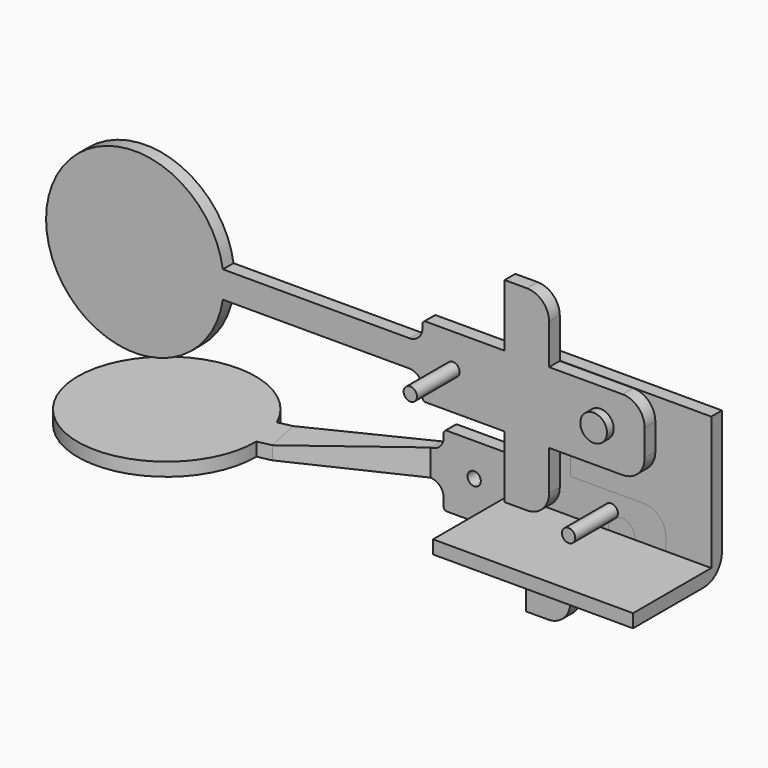
from build123d import *

# Parameters (mm, degrees)
F0_W          = 45
F0_H          = 30
F0_R          = 1.5
F1_DEPTH      = 3
F0_H_2        = 3
F2_DEPTH      = 25
F3_D          = 6
F4_R          = 5
F5_R          = 1.5
F5_R_2        = 3
F6_DEPTH      = 3
F7_DEPTH      = 8
F7_DEPTH_BACK = 2
F8_DEPTH      = 15
F10_DEPTH     = 15
F13_DEPTH     = 3
F12_R         = 1.5
F12_R_2       = 3
F14_DEPTH     = 3
F14_FACE_W    = 3
F14_FACE_H    = 6.0007511677
F13_FACE_W    = 8.1384943845
F13_FACE_H    = 3


with BuildPart() as f1:
    # F0 (on Front) → F1 (new body)
    with BuildSketch(Plane.XZ):
        with Locations((22.5, 15)):
            Rectangle(F0_W, F0_H)
        with Locations((22.5, 4)):
            Circle(F0_R, mode=Mode.SUBTRACT)
    extrude(amount=F1_DEPTH)

    # F0 (on Front) → F2 (join)
    with BuildSketch(Plane.XZ):
        with Locations((22.5, -1.5)):
            Rectangle(F0_W, F0_H_2)
    extrude(amount=F2_DEPTH)

    # F3 (through all)
    with Locations(Plane(origin=(0, 0, 0), x_dir=(1, 0, 0), z_dir=(0, 1, 0))):
        with Locations((22.5, -22)):
            Hole(F3_D / 2)

    # F4
    f4_edges = [f1.edges().sort_by_distance(p)[0] for p in [
        (22.5, 0, -3),
    ]]
    fillet(f4_edges, radius=F4_R)

    # F0 (on Front) → F10 (join)
    with BuildSketch(Plane.XZ):
        with Locations((22.5, 4)):
            Circle(F0_R)
    extrude(amount=F10_DEPTH)


with BuildPart() as f6:
    # F5 (on Front) → F6 (new body)
    with BuildSketch(Plane.XZ):
        with BuildLine():
            ThreePointArc((32.5, 25), (31.0355339059, 28.5355339059), (27.5, 30))
            Line((27.5, 30), (11, 30))
            Line((11, 30), (11, 39))
            ThreePointArc((11, 39), (9.5355339059, 42.5355339059), (6, 44))
            Line((6, 44), (1, 44))
            Line((1, 44), (1, 30))
            Line((1, 30), (-16.7666415907, 30))
            ThreePointArc((-16.7666415907, 30), (-17.285204295, 29.785204295), (-17.5, 29.2666415907))
            Line((-17.5, 29.2666415907), (-17.5, 28.4080051974))
            ThreePointArc((-17.5, 28.4080051974), (-18.3508708734, 26.353821195), (-20.4050548757, 25.5029503216))
            Line((-20.4050548757, 25.5029503216), (-62.4050548757, 25.5029503216))
            ThreePointArc((-62.4050548757, 25.5029503216), (-102.178774809, 22.5029503216), (-62.4050548757, 19.5029503216))
            Line((-62.4050548757, 19.5029503216), (-20.5, 19.5029503216))
            ThreePointArc((-20.5, 19.5029503216), (-18.3786796564, 18.6242706652), (-17.5, 16.5029503216))
            Line((-17.5, 16.5029503216), (-17.5, 14.7333584093))
            ThreePointArc((-17.5, 14.7333584093), (-17.285204295, 14.214795705), (-16.7666415907, 14))
            Line((-16.7666415907, 14), (1, 14))
            Line((1, 14), (1, 0))
            Line((1, 0), (6, 0))
            ThreePointArc((6, 0), (9.5355339059, 1.4644660941), (11, 5))
            Line((11, 5), (11, 14))
            Line((11, 14), (27.5, 14))
            ThreePointArc((27.5, 14), (31.0355339059, 15.4644660941), (32.5, 19))
            Line((32.5, 19), (32.5, 25))
        make_face()
        with Locations((-10.6325279921, 22.5029503216)):
            Circle(F5_R, mode=Mode.SUBTRACT)
        with Locations((22.5359164178, 22.5029503216)):
            Circle(F5_R_2, mode=Mode.SUBTRACT)
    extrude(amount=F6_DEPTH)

    # F5 (on Front) → F8 (join)
    with BuildSketch(Plane.XZ):
        with Locations((-10.6325279921, 22.5029503216)):
            Circle(F5_R)
    extrude(amount=F8_DEPTH)


with BuildPart() as f7:
    # F5 (on Front) → F7 (new body, two sides)
    with BuildSketch(Plane.XZ) as f7_sk:
        with Locations((22.5359164178, 22.5029503216)):
            Circle(F5_R_2)
    extrude(amount=F7_DEPTH)
    extrude(f7_sk.sketch, amount=-F7_DEPTH_BACK)


with BuildPart() as f6_1:
    # F9: moved
    add(f6.part.moved(Location((0, -3.1, 0))))


with BuildPart() as f13:
    # F11 (on Top) → F13 (new body)
    with BuildSketch(Plane.XY):
        with BuildLine():
            Line((-42.503958739, -11.217947247), (-45.620290691, -11.8869222764))
            ThreePointArc((-45.620290691, -11.8869222764), (-83.4127590866, -24.3366303772), (-43.8777487707, -19.8367572071))
            Line((-43.8777487707, -19.8367572071), (-40.7958033527, -19.1751638472))
            Line((-40.7958033527, -19.1751638472), (-42.503958739, -11.217947247))
        make_face()
    extrude(amount=F13_DEPTH)



with BuildPart() as f14:
    # F12 (on Front) → F14 (new body)
    with BuildSketch(Plane.XZ):
        with BuildLine():
            ThreePointArc((34.7877358819, 2.8544844273), (33.3232697878, 6.3900183332), (29.7877358819, 7.8544844273))
            Line((29.7877358819, 7.8544844273), (13.2877358819, 7.8544844273))
            Line((13.2877358819, 7.8544844273), (13.2877358819, 16.8544844273))
            ThreePointArc((13.2877358819, 16.8544844273), (11.8232697878, 20.3900183332), (8.2877358819, 21.8544844273))
            Line((8.2877358819, 21.8544844273), (3.2877358819, 21.8544844273))
            Line((3.2877358819, 21.8544844273), (3.2877358819, 7.8544844273))
            Line((3.2877358819, 7.8544844273), (-14.4789057088, 7.8544844273))
            ThreePointArc((-14.4789057088, 7.8544844273), (-14.9974684131, 7.6396887222), (-15.2122641181, 7.121126018))
            Line((-15.2122641181, 7.121126018), (-15.2122641181, 6.2624896246))
            ThreePointArc((-15.2122641181, 6.2624896246), (-16.0631349915, 4.2083056223), (-18.1173189938, 3.3574347489))
            Line((-18.1173189938, 3.3574347489), (-18.2122641181, -2.6425652511))
            ThreePointArc((-18.2122641181, -2.6425652511), (-16.0909437745, -3.5212449075), (-15.2122641181, -5.6425652511))
            Line((-15.2122641181, -5.6425652511), (-15.2122641181, -7.4121571635))
            ThreePointArc((-15.2122641181, -7.4121571635), (-14.9974684131, -7.9307198677), (-14.4789057088, -8.1455155727))
            Line((-14.4789057088, -8.1455155727), (3.2877358819, -8.1455155727))
            Line((3.2877358819, -8.1455155727), (3.2877358819, -22.1455155727))
            Line((3.2877358819, -22.1455155727), (8.2877358819, -22.1455155727))
            ThreePointArc((8.2877358819, -22.1455155727), (11.8232697878, -20.6810494787), (13.2877358819, -17.1455155727))
            Line((13.2877358819, -17.1455155727), (13.2877358819, -8.1455155727))
            Line((13.2877358819, -8.1455155727), (29.7877358819, -8.1455155727))
            ThreePointArc((29.7877358819, -8.1455155727), (33.3232697878, -6.6810494787), (34.7877358819, -3.1455155727))
            Line((34.7877358819, -3.1455155727), (34.7877358819, 2.8544844273))
        make_face()
        with Locations((-8.3447921102, 0.3574347489)):
            Circle(F12_R, mode=Mode.SUBTRACT)
        with Locations((24.8236522997, 0.3574347489)):
            Circle(F12_R_2, mode=Mode.SUBTRACT)
    extrude(amount=F14_DEPTH)


with BuildPart() as f13_1:
    add(f13.part)

    add(f14.part)  # F15 merges F14
    # F14_face (on face) → F15 section 0
    with BuildSketch(Plane(origin=(-18.1647915559, -1.5, 0.3574347489), x_dir=(0, -1, 0), z_dir=(-0.9998748211, 0, 0.0158222065))):
        Rectangle(F14_FACE_W, F14_FACE_H)
    # F13_face (on face) → F15 section 1
    with BuildSketch(Plane(origin=(-41.6498810458, -15.1965555471, 1.5), x_dir=(-0.2098859206, 0.977725882, 0), z_dir=(0.977725882, 0.2098859206, 0))):
        Rectangle(F13_FACE_W, F13_FACE_H)
    loft()


solid = Compound([f1.part, f7.part, f6_1.part, f13_1.part])
